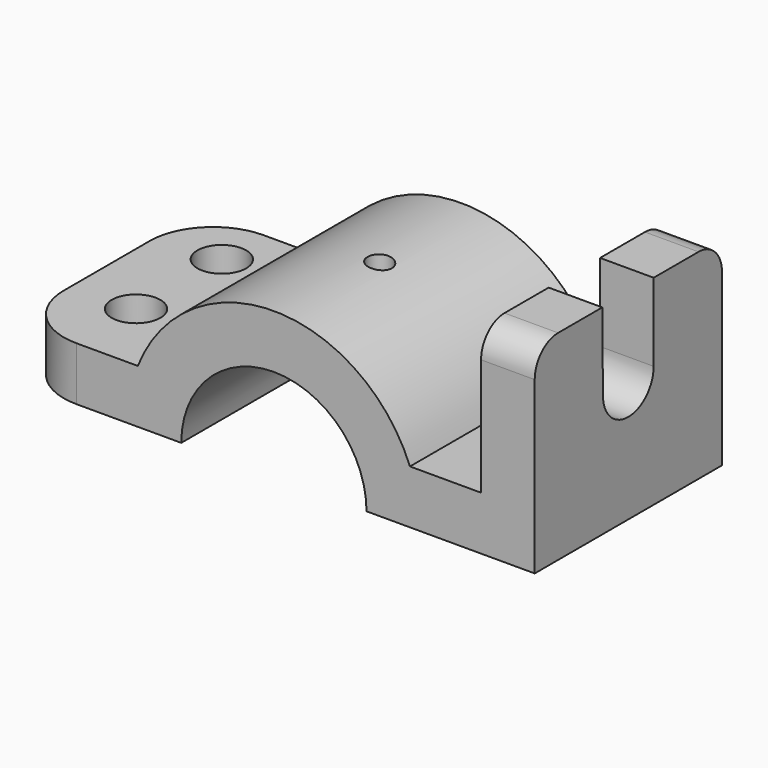
from build123d import *

# Parameters (mm, degrees)
F0_W      = 2717.8
F0_H      = 1041.4
F1_DEPTH  = 1219.2
F3_DEPTH  = 1541.07723
F4_R      = 482.6
F5_DEPTH  = 1219.2
F6_R      = 127
F7_DEPTH  = 279.4
F8_R      = 63.5
F9_DEPTH  = 1270
F11_DEPTH = 279.4
F12_R     = 330.2
F13_R     = 152.4


with BuildPart() as f1:
    # F0 (on Front) → F1 (new body)
    with BuildSketch(Plane.XZ):
        with Locations((1358.9, 520.7)):
            Rectangle(F0_W, F0_H)
    extrude(amount=F1_DEPTH)

    # F2 (on face) → F3 (cut)
    with BuildSketch(Plane.XZ.offset(1219.2)):
        with BuildLine():
            ThreePointArc((649.971485, 279.4), (1358.9, 762), (2067.828515, 279.4))
            Line((2067.828515, 279.4), (2438.4, 279.4))
            Line((2438.4, 279.4), (2438.4, 1041.4))
            Line((2438.4, 1041.4), (0, 1041.4))
            Line((0, 1041.4), (0, 279.4))
            Line((0, 279.4), (649.971485, 279.4))
        make_face()
    extrude(amount=-F3_DEPTH, mode=Mode.SUBTRACT)

    # F4 (on face) → F5 (cut)
    with BuildSketch(Plane.XZ.offset(1219.2)):
        with Locations((1358.9, 0)):
            Circle(F4_R)
    extrude(amount=-F5_DEPTH, mode=Mode.SUBTRACT)

    # F6 (on face) → F7 (cut)
    with BuildSketch(Plane.XY.offset(279.4)):
        with Locations((330.2, -272.418916)):
            Circle(F6_R)
        with Locations((330.2, -831.218916)):
            Circle(F6_R)
    extrude(amount=-F7_DEPTH, mode=Mode.SUBTRACT)

    # F8 (on face) → F9 (cut)
    with BuildSketch(Plane(origin=(0, 0, 0), x_dir=(1, 0, 0), z_dir=(0, 0, -1))):
        with Locations((1422.4, 609.6)):
            Circle(F8_R)
    extrude(amount=-F9_DEPTH, mode=Mode.SUBTRACT)

    # F10 (on face) → F11 (cut)
    with BuildSketch(Plane.YZ.offset(2717.8)):
        with BuildLine():
            Line((-779.182394, 1041.4), (-774.690003, 633.183199))
            ThreePointArc((-774.690003, 633.183199), (-608.691586, 469.902499), (-444.5, 635))
            Line((-444.5, 635), (-444.5, 1041.4))
            Line((-444.5, 1041.4), (-779.182394, 1041.4))
        make_face()
    extrude(amount=-F11_DEPTH, mode=Mode.SUBTRACT)

    # F12
    f12_edges = [f1.edges().sort_by_distance(p)[0] for p in [
        (0, 0, 139.7),
        (0, -1219.2, 139.7),
    ]]
    fillet(f12_edges, radius=F12_R)

    # F13
    f13_edges = [f1.edges().sort_by_distance(p)[0] for p in [
        (2578.1, -1219.2, 1041.4),
        (2578.1, 0, 1041.4),
    ]]
    fillet(f13_edges, radius=F13_R)


solid = f1.part
